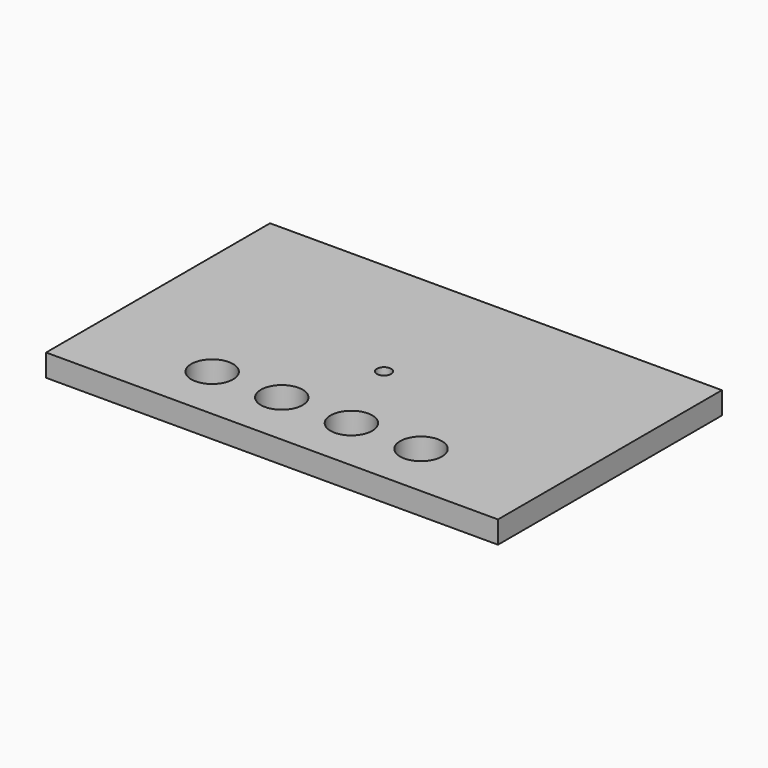
from build123d import *

# Parameters (mm, degrees)
SKETCH_W   = 64.9
SKETCH_H   = 40.2
SKETCH_R   = 1.02
SKETCH_R_2 = 3
PAD_DEPTH  = 3.2


with BuildPart() as part:
    # Sketch → Pad (new body)
    with BuildSketch(Plane.XY):
        Rectangle(SKETCH_W, SKETCH_H)
        Circle(SKETCH_R, mode=Mode.SUBTRACT)
        with Locations((15, -12.1)):
            Circle(SKETCH_R_2, mode=Mode.SUBTRACT)
        with Locations((5, -12.1)):
            Circle(SKETCH_R_2, mode=Mode.SUBTRACT)
        with Locations((-5, -12.1)):
            Circle(SKETCH_R_2, mode=Mode.SUBTRACT)
        with Locations((-15, -12.1)):
            Circle(SKETCH_R_2, mode=Mode.SUBTRACT)
    extrude(amount=PAD_DEPTH)


solid = part.part
